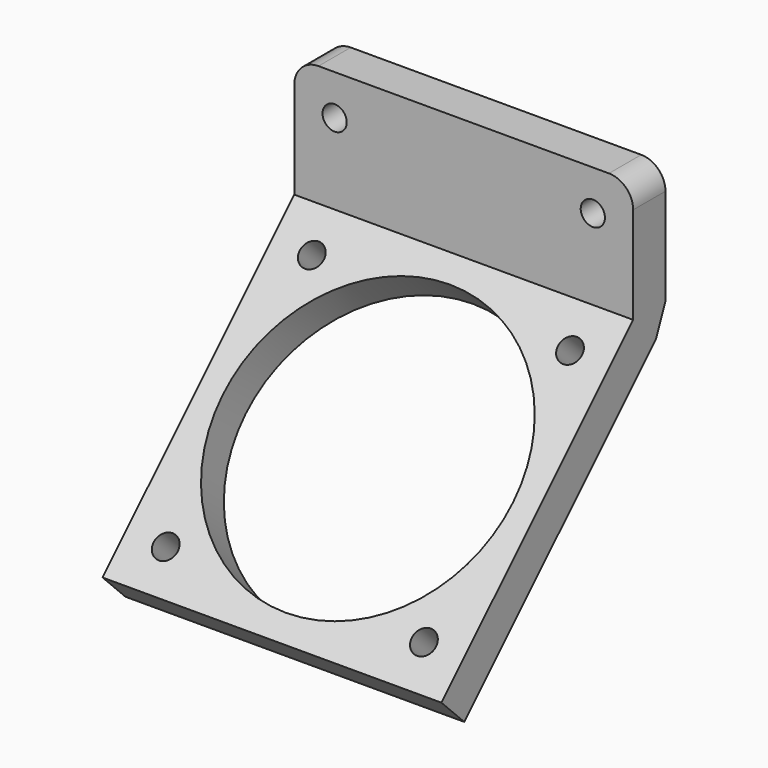
from build123d import *

# Parameters (mm, degrees)
F0_R     = 1.5
F1_DEPTH = 5
F3_DEPTH = 42
F4_R     = 1.5
F4_R_2   = 18
F5_DEPTH = 5


with BuildPart() as f1:
    # F0 (on Front) → F1 (new body)
    with BuildSketch(Plane.XZ):
        with BuildLine():
            Line((39, 0), (3, 0))
            ThreePointArc((3, 0), (0.87868, -0.87868), (0, -3))
            Line((0, -3), (0, -15))
            Line((0, -15), (42, -15))
            Line((42, -15), (42, -3))
            ThreePointArc((42, -3), (41.12132, -0.87868), (39, 0))
        make_face()
        with Locations((5, -5)):
            Circle(F0_R, mode=Mode.SUBTRACT)
        with Locations((37, -5)):
            Circle(F0_R, mode=Mode.SUBTRACT)
    extrude(amount=F1_DEPTH)

    # F2 (on face) → F3 (join)
    with BuildSketch(Plane(origin=(0, 0, 0), x_dir=(0, -1, 0), z_dir=(-1, 0, 0))):
        Polygon((34.698485, -44.698485), (5, -15), (0, -15), (1.464466, -18.535534), (31.162951, -48.234019), align=None)
    extrude(amount=-F3_DEPTH)

    # F4 (on face) → F5 (cut)
    with BuildSketch(Plane(origin=(0, 5, -5), x_dir=(1, 0, 0), z_dir=(0, -0.707107, 0.707107))):
        with Locations((37, -19.142136)):
            Circle(F4_R)
        with Locations((37, -51.142136)):
            Circle(F4_R)
        with Locations((5, -51.142136)):
            Circle(F4_R)
        with Locations((5, -19.142136)):
            Circle(F4_R)
        with Locations((21, -35.142136)):
            Circle(F4_R_2)
    extrude(amount=-F5_DEPTH, mode=Mode.SUBTRACT)


solid = f1.part
